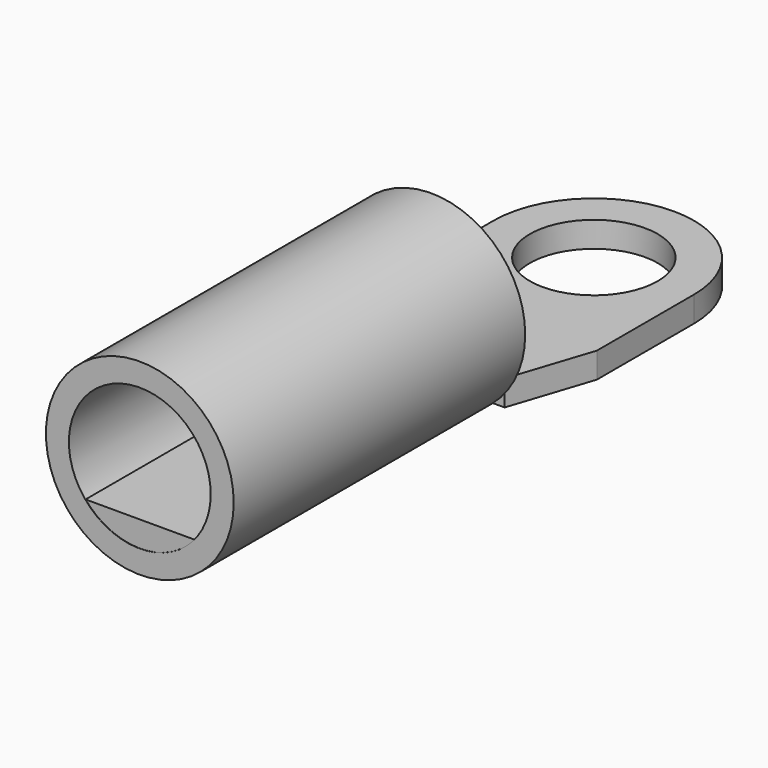
from build123d import *

# Parameters (mm, degrees)
F0_R     = 2.5
F1_DEPTH = 1
F2_R     = 3.675
F2_R_2   = 2.775
F3_DEPTH = 14.26
F4_DEPTH = 14.25


with BuildPart() as f1:
    # F0 (on Top) → F1 (new body)
    with BuildSketch(Plane.XY):
        with BuildLine():
            ThreePointArc((-3.92, 0), (0, -3.92), (3.92, 0))
            ThreePointArc((3.92, 0), (0, 3.92), (-3.92, 0))
        make_face()
        Circle(F0_R, mode=Mode.SUBTRACT)
        with BuildLine():
            Line((3.92, -4.75), (3.92, 0))
            ThreePointArc((3.92, 0), (0, -3.92), (-3.92, 0))
            Line((-3.92, 0), (-3.92, -4.75))
            Line((-3.92, -4.75), (-2.87, -7.95))
            Line((-2.87, -7.95), (2.87, -7.95))
            Line((2.87, -7.95), (3.92, -4.75))
        make_face()
    extrude(amount=F1_DEPTH)


with BuildPart() as f3:
    # F2 (on face) → F3 (new body)
    with BuildSketch(Plane.XZ.offset(7.95)):
        with Locations((0, 2.775)):
            Circle(F2_R)
        with Locations((0, 2.775)):
            Circle(F2_R_2, mode=Mode.SUBTRACT)
    extrude(amount=F3_DEPTH)


with BuildPart() as f4:
    # F2 (on face) → F4 (new body)
    with BuildSketch(Plane.XZ.offset(7.95)):
        with BuildLine():
            ThreePointArc((-2.133073, 1), (-1.177922, 0.262407), (0, 0))
            ThreePointArc((0, 0), (1.177922, 0.262407), (2.133073, 1))
            Line((2.133073, 1), (-2.133073, 1))
        make_face()
    extrude(amount=F4_DEPTH)


solid = Compound([f1.part, f3.part, f4.part])
